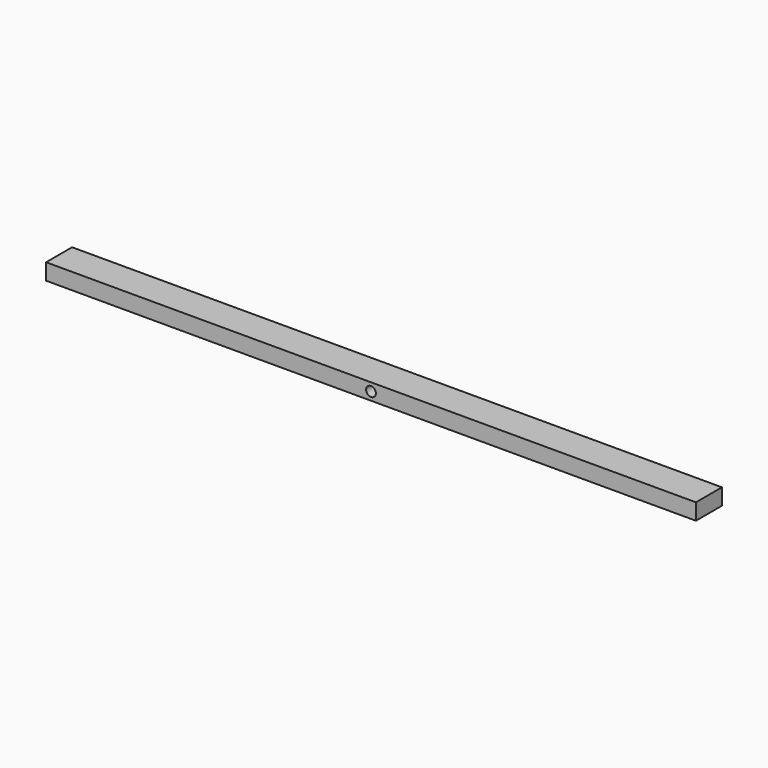
from build123d import *

# Parameters (mm, degrees)
F0_W     = 200
F0_H     = 5
F0_R     = 1.5
F1_DEPTH = 5


with BuildPart() as f1:
    # F0 (on Front) → F1 (new body, symmetric)
    with BuildSketch(Plane.XZ):
        Rectangle(F0_W, F0_H)
        Circle(F0_R, mode=Mode.SUBTRACT)
    extrude(amount=F1_DEPTH, both=True)


with BuildPart() as f2_1:
    # F2: copy of F1
    add(f1.part)


solid = Compound([f1.part, f2_1.part])
